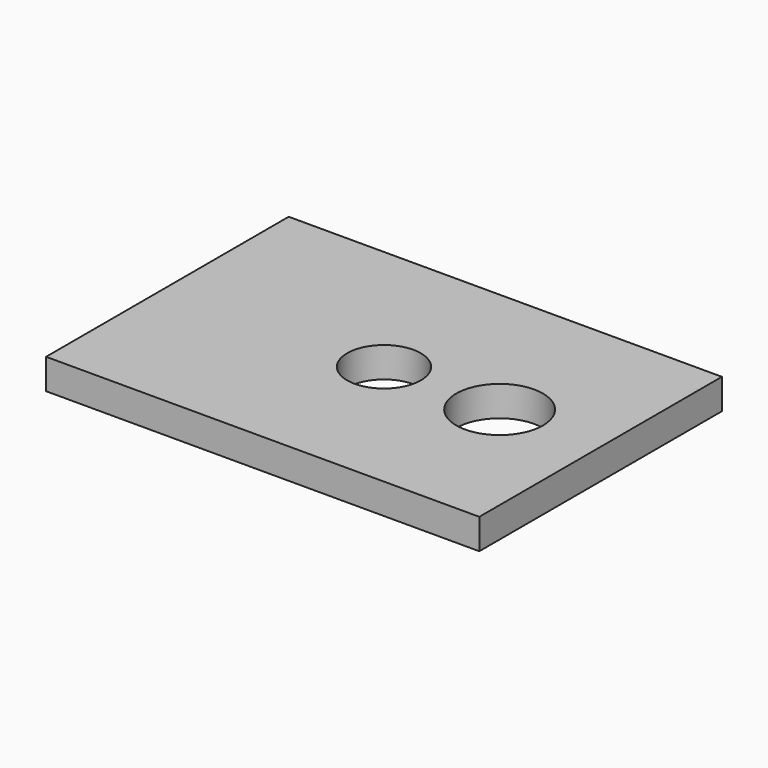
from build123d import *

# Parameters (mm, degrees)
F0_W     = 254
F0_H     = 177.8
F0_R     = 21.59
F0_R_2   = 25.4
F1_DEPTH = 17.78


with BuildPart() as f1:
    # F0 (on Top) → F1 (new body)
    with BuildSketch(Plane.XY):
        Rectangle(F0_W, F0_H)
        Circle(F0_R, mode=Mode.SUBTRACT)
        with Locations((67.79138, 0)):
            Circle(F0_R_2, mode=Mode.SUBTRACT)
    extrude(amount=F1_DEPTH)


solid = f1.part
